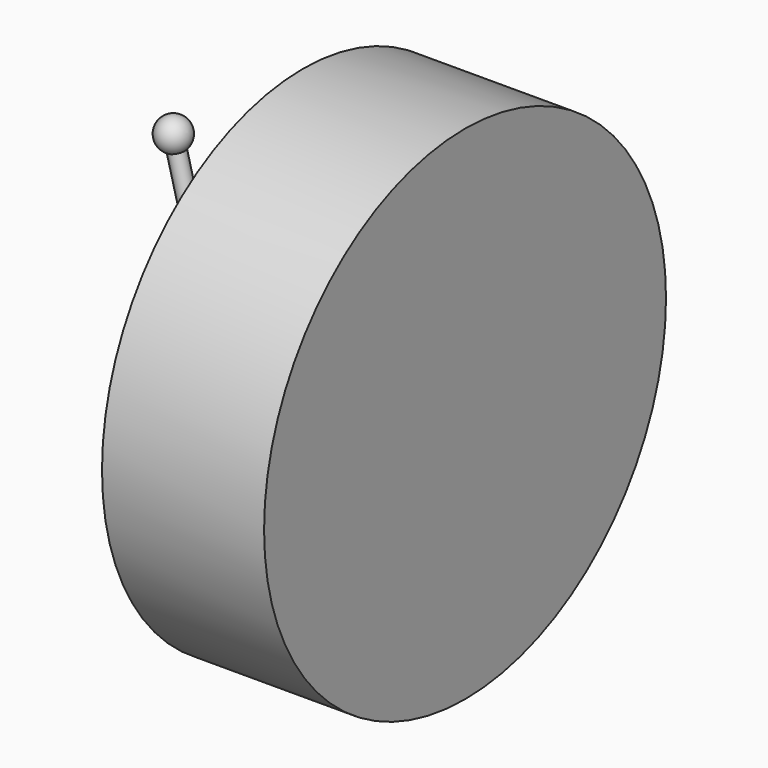
from build123d import *


with BuildPart() as f1:
    # F0 (on Front) → F1 (revolve)
    with BuildSketch(Plane.XZ):
        with BuildLine():
            Line((2.6761656733, -90.3647450844), (-42.9937073078, 86.5139123947))
            ThreePointArc((-42.9937073078, 86.5139123947), (-41.2945110155, 98.5699865045), (-52.5, 103.3316256759))
            Line((-52.5, 103.3316256759), (2.5, -109.6824583655))
            ThreePointArc((2.5, -109.6824583655), (9.99958421, -100.0911900627), (2.6761656733, -90.3647450844))
        make_face()
    revolve(axis=Axis((-25, 0, -3.1754163448), (0.25, 0, -0.9682458366)))

    # F2 (on Front) → F3 (revolve)
    with BuildSketch(Plane.XZ):
        Polygon((30, 5), (-25, 5), (-25, 0), (130, 0), (130, 155), (30, 155), align=None)
    revolve(axis=Axis((52.5, 0, 0), (-1, 0, 0)))


solid = f1.part
